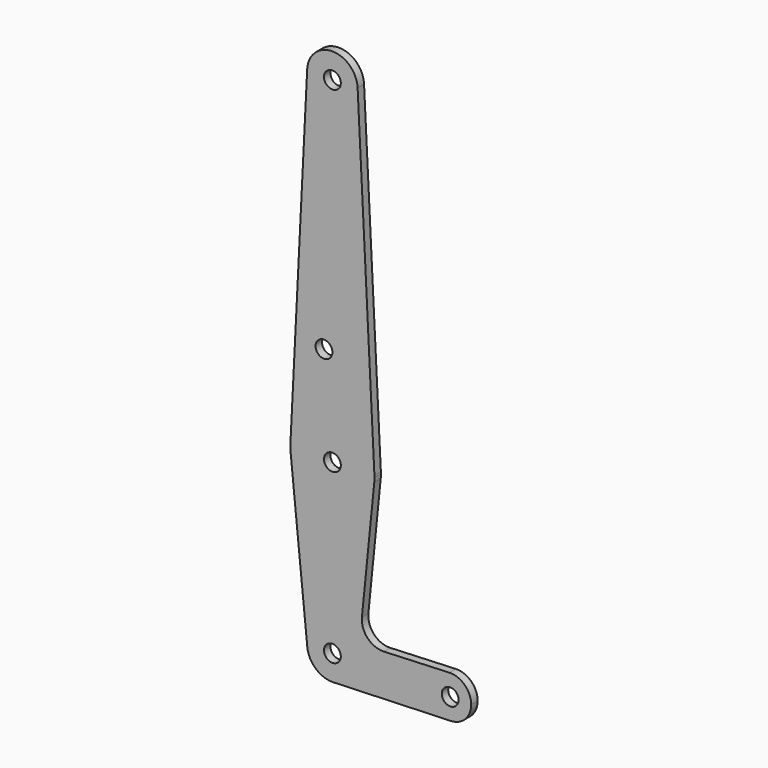
from build123d import *

# Parameters (mm, degrees)
F0_R     = 3.175
F1_DEPTH = 3.048


with BuildPart() as f1:
    # F0 (on Front) → F1 (new body)
    with BuildSketch(Plane.XZ):
        with BuildLine():
            ThreePointArc((-16.294658, 141.829852), (-7.019772, 131.831581), (2.743428, 141.353602))
            ThreePointArc((2.743428, 141.353602), (2.740449, 141.591802), (2.731514, 141.829852))
            ThreePointArc((2.731514, 141.829852), (-6.781572, 150.878602), (-16.294658, 141.829852))
        make_face()
        with Locations((-6.781572, 141.353602)):
            Circle(F0_R, mode=Mode.SUBTRACT)
        with BuildLine():
            ThreePointArc((2.731514, 141.829852), (2.740449, 141.591802), (2.743428, 141.353602))
            ThreePointArc((2.743428, 141.353602), (-7.019772, 131.831581), (-16.294658, 141.829852))
            Line((-16.294658, 141.829852), (-22.636716, 15.147352))
            ThreePointArc((-22.636716, 15.147352), (-6.781572, 30.228602), (9.073572, 15.147352))
            Line((9.073572, 15.147352), (2.731514, 141.829852))
        make_face()
        with Locations((-9.956572, 50.878802)):
            Circle(F0_R, mode=Mode.SUBTRACT)
        with BuildLine():
            ThreePointArc((9.093428, 14.353602), (9.088463, 14.750602), (9.073572, 15.147352))
            ThreePointArc((9.073572, 15.147352), (-6.781572, 30.228602), (-22.636716, 15.147352))
            ThreePointArc((-22.636716, 15.147352), (-22.651582, 13.955606), (-22.576998, 12.766102))
            ThreePointArc((-22.576998, 12.766102), (-6.781572, -1.521398), (9.013853, 12.766102))
            ThreePointArc((9.013853, 12.766102), (9.073522, 13.558856), (9.093428, 14.353602))
        make_face()
        with Locations((-6.781572, 14.353602)):
            Circle(F0_R, mode=Mode.SUBTRACT)
        with BuildLine():
            ThreePointArc((9.013853, 12.766102), (-6.781572, -1.521398), (-22.576998, 12.766102))
            Line((-22.576998, 12.766102), (-16.258827, -50.098898))
            ThreePointArc((-16.258827, -50.098898), (-7.25842, -39.633341), (2.743428, -49.146398))
            ThreePointArc((2.743428, -49.146398), (0.188985, -55.637697), (-6.104229, -58.647283))
            Line((-6.104229, -58.647283), (37.950833, -57.078872))
            ThreePointArc((37.950833, -57.078872), (29.736839, -49.452661), (37.338308, -41.215765))
            Line((37.338308, -41.215765), (12.604228, -42.245343))
            ThreePointArc((12.604228, -42.245343), (6.489757, -39.756658), (4.363232, -33.507001))
            Line((4.363232, -33.507001), (9.013853, 12.766102))
        make_face()
        with BuildLine():
            ThreePointArc((2.743428, -49.146398), (-7.25842, -39.633341), (-16.258827, -50.098898))
            ThreePointArc((-16.258827, -50.098898), (-13.171136, -56.210327), (-6.781572, -58.671398))
            Line((-6.781572, -58.671398), (-6.104229, -58.647283))
            ThreePointArc((-6.104229, -58.647283), (0.188985, -55.637697), (2.743428, -49.146398))
        make_face()
        with Locations((-6.781572, -49.146398)):
            Circle(F0_R, mode=Mode.SUBTRACT)
        with BuildLine():
            Line((-6.104229, -58.647283), (-6.781572, -58.671398))
            ThreePointArc((-6.781572, -58.671398), (-6.442686, -58.665367), (-6.104229, -58.647283))
        make_face()
        with BuildLine():
            ThreePointArc((45.605928, -49.146398), (43.163134, -43.418212), (37.338308, -41.215765))
            ThreePointArc((37.338308, -41.215765), (29.736839, -49.452661), (37.950833, -57.078872))
            ThreePointArc((37.950833, -57.078872), (43.380061, -54.658308), (45.605928, -49.146398))
        make_face()
        with Locations((37.668428, -49.146398)):
            Circle(F0_R, mode=Mode.SUBTRACT)
    extrude(amount=F1_DEPTH)


solid = f1.part
